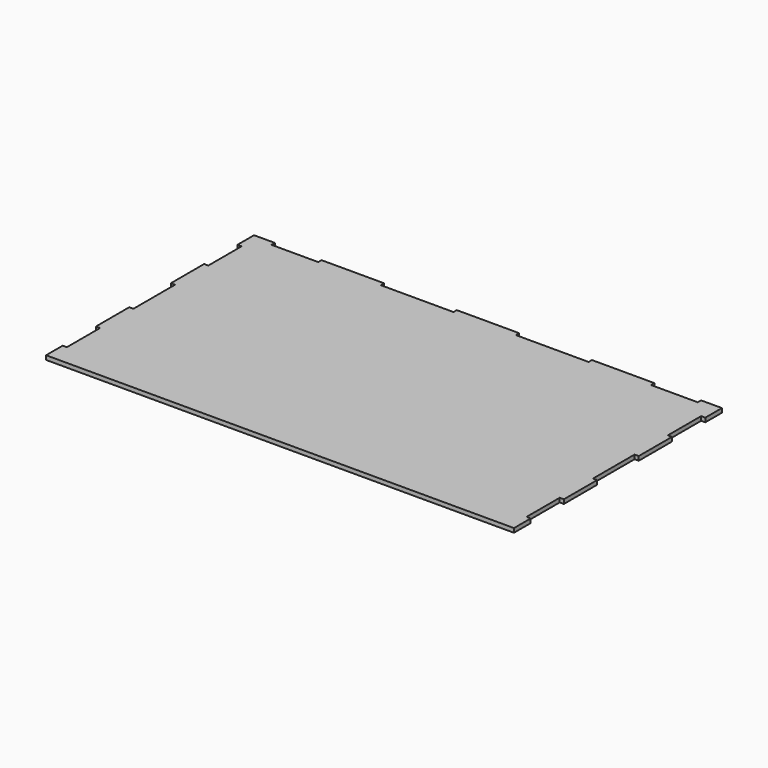
from build123d import *

# Parameters (mm, degrees)
F1_DEPTH = 4


with BuildPart() as f1:
    # F0 (on Top) → F1 (new body)
    with BuildSketch(Plane.XY):
        Polygon((-450, 0), (0, 0), (0, 20), (-4, 20), (-4, 60), (0, 60), (0, 100), (-4, 100), (-4, 150), (0, 150), (0, 190), (-4, 190), (-4, 230), (0, 230), (0, 250), (-20, 250), (-20, 246), (-65, 246), (-65, 250), (-125, 250), (-125, 246), (-195, 246), (-195, 250), (-255, 250), (-255, 246), (-325, 246), (-325, 250), (-385, 250), (-385, 246), (-430, 246), (-430, 250), (-450, 250), (-450, 230), (-446, 230), (-446, 190), (-450, 190), (-450, 150), (-446, 150), (-446, 100), (-450, 100), (-450, 60), (-446, 60), (-446, 20), (-450, 20), align=None)
    extrude(amount=F1_DEPTH)


solid = f1.part
